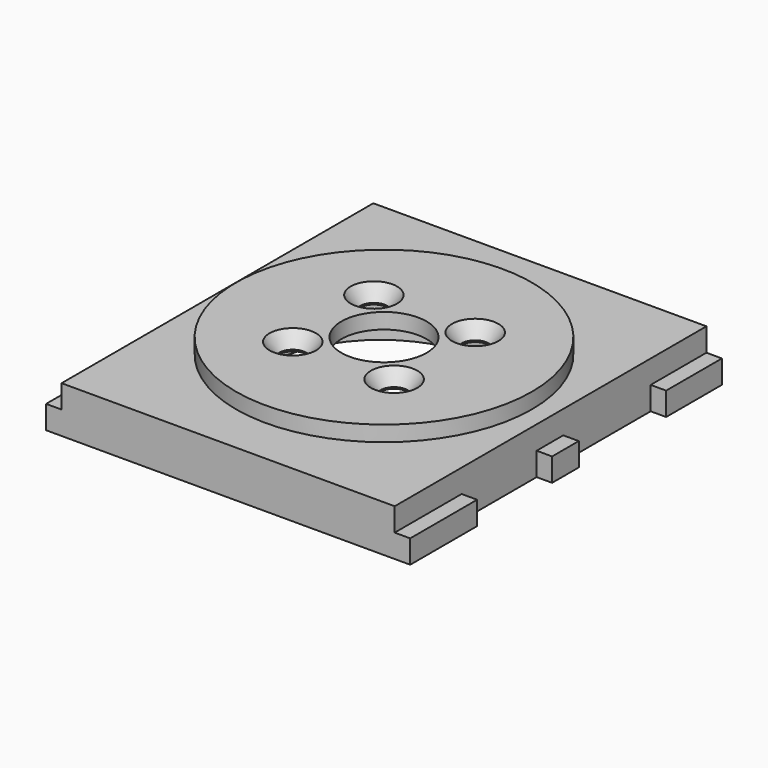
from build123d import *

# Parameters (mm, degrees)
F0_R     = 15
F1_DEPTH = 3
F2_R     = 15
F2_W     = 18
F2_H     = 3
F3_DEPTH = 3
F4_R     = 19.092503
F4_R_2   = 1.75
F4_R_3   = 5.5
F5_DEPTH = 2
F6_SIZE2 = 1.8
F6_SIZE  = 1.25
F7_W     = 2
F7_H     = 0.1
F8_DEPTH = 3.001


with BuildPart() as f1:
    # F0 (on Top) → F1 (new body)
    with BuildSketch(Plane.XY):
        Polygon((-9.5, 25.15), (-23.5, 25.15), (-23.5, 18.15), (-21.5, 18.15), (-21.5, -17.35), (-23.5, -17.35), (-23.5, -25.15), (23.5, -25.15), (23.5, -14.35), (21.5, -14.35), (21.5, -2.35), (23.5, -2.35), (23.5, 2.15), (21.5, 2.15), (21.5, 16.15), (23.5, 16.15), (23.5, 25.15), (8.5, 25.15), (8.5, 22.15), (-9.5, 22.15), align=None)
        with Locations((-0.135, -0.392646)):
            Circle(F0_R, mode=Mode.SUBTRACT)
    extrude(amount=F1_DEPTH)

    # F2 (on face) → F3 (join)
    with BuildSketch(Plane.XY.offset(3)):
        Polygon((-21.5, 25.15), (-21.5, 18.15), (-21.5, -17.35), (-21.5, -25.15), (21.5, -25.15), (21.5, -14.35), (21.5, -2.35), (21.5, 2.15), (21.5, 16.15), (21.5, 25.15), (8.5, 25.15), (8.5, 22.15), (-9.5, 22.15), (-9.5, 25.15), align=None)
        with Locations((-0.135, -0.392646)):
            Circle(F2_R, mode=Mode.SUBTRACT)
        with Locations((-0.5, 23.65)):
            Rectangle(F2_W, F2_H)
    extrude(amount=F3_DEPTH)

    # F4 (on face) → F5 (join)
    with BuildSketch(Plane.XY.offset(6)):
        Circle(F4_R)
        with Locations((-6.540738, -6.540738)):
            Circle(F4_R_2, mode=Mode.SUBTRACT)
        with Locations((6.540738, -6.540738)):
            Circle(F4_R_2, mode=Mode.SUBTRACT)
        with Locations((-6.540738, 6.540738)):
            Circle(F4_R_2, mode=Mode.SUBTRACT)
        Circle(F4_R_3, mode=Mode.SUBTRACT)
        with Locations((6.540738, 6.540738)):
            Circle(F4_R_2, mode=Mode.SUBTRACT)
        Circle(F4_R)
        with Locations((-6.540738, -6.540738)):
            Circle(F4_R_2, mode=Mode.SUBTRACT)
        with Locations((6.540738, -6.540738)):
            Circle(F4_R_2, mode=Mode.SUBTRACT)
        with Locations((-6.540738, 6.540738)):
            Circle(F4_R_2, mode=Mode.SUBTRACT)
        Circle(F4_R_3, mode=Mode.SUBTRACT)
        with Locations((6.540738, 6.540738)):
            Circle(F4_R_2, mode=Mode.SUBTRACT)
    extrude(amount=F5_DEPTH)

    # F6
    f6_edges = [f1.edges().sort_by_distance(p)[0] for p in [
        (-8.290738, 6.540738, 8),
        (4.790738, 6.540738, 8),
        (4.790738, -6.540738, 8),
        (-8.290738, -6.540738, 8),
    ]]
    chamfer(f6_edges, length=F6_SIZE, length2=F6_SIZE2)

    # F7 (on face) → F8 (cut, through all)
    with BuildSketch(Plane.XY.offset(3)):
        with Locations((22.5, 2.1)):
            Rectangle(F7_W, F7_H)
        with Locations((22.5, -2.3)):
            Rectangle(F7_W, F7_H)
    extrude(amount=-F8_DEPTH, mode=Mode.SUBTRACT)


solid = f1.part
